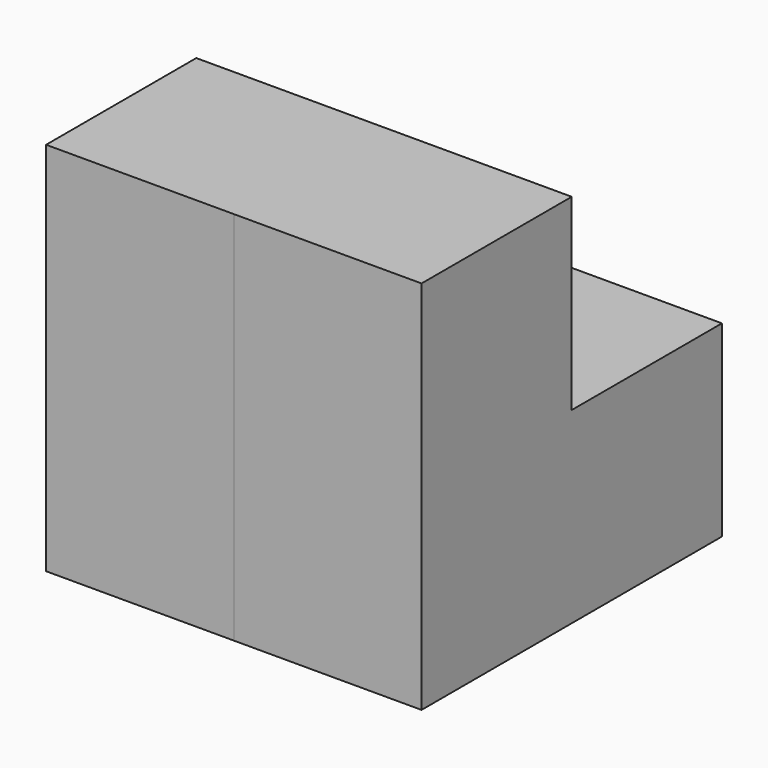
from build123d import *

# Parameters (mm, degrees)
F1_DEPTH = 25.4
F2_DEPTH = 25.4


with BuildPart() as f1:
    # F0 (on Right) → F1 (new body)
    with BuildSketch(Plane.YZ):
        Polygon((-23.798969, 35.811639), (-49.198969, 35.811639), (-49.198969, -14.988361), (1.601031, -14.988361), (1.601031, 10.411639), (-23.798969, 10.411639), align=None)
    extrude(amount=F1_DEPTH)

    # F1_face (on face) → F2 (join)
    with BuildSketch(Plane(origin=(0, -28.032303, 6.178306), x_dir=(0, 1, 0), z_dir=(-1, 0, 0))):
        Polygon((4.233333, -29.633333), (4.233333, -4.233333), (29.633333, -4.233333), (29.633333, 21.166667), (-21.166667, 21.166667), (-21.166667, -29.633333), align=None)
    extrude(amount=F2_DEPTH)


solid = f1.part
